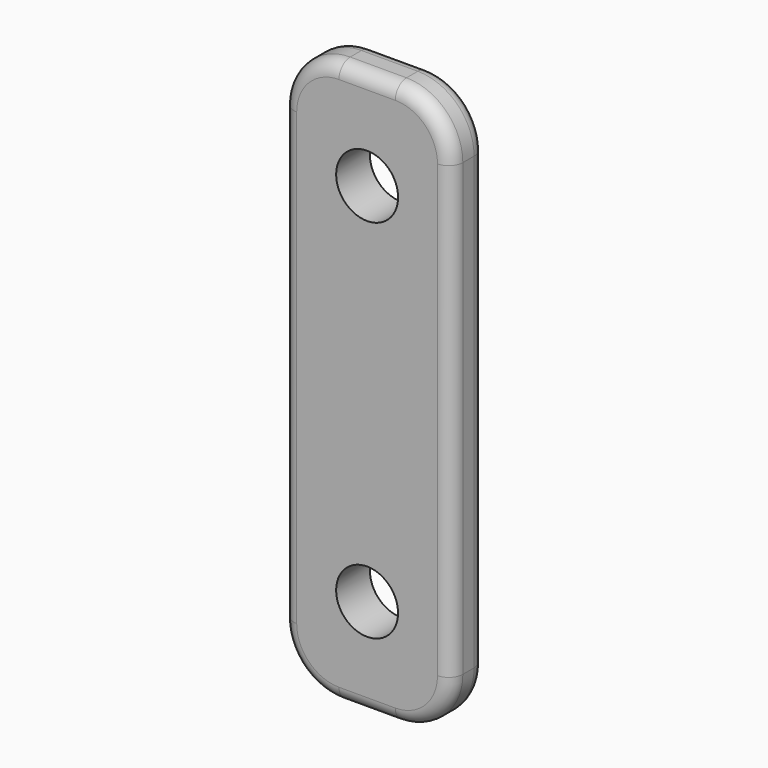
from build123d import *

# Parameters (mm, degrees)
F0_W           = 12
F0_H           = 40
F1_DEPTH       = 3
F2_R           = 4
F3_R           = 1
F5_D           = 4.4
F5_DEPTH       = 30
F5_CBORE_D     = 4.4
F5_CBORE_DEPTH = 4


with BuildPart() as f1:
    # F0 (on Front) → F1 (new body)
    with BuildSketch(Plane.XZ):
        Rectangle(F0_W, F0_H)
    extrude(amount=F1_DEPTH)

    # F2
    f2_edges = [f1.edges().sort_by_distance(p)[0] for p in [
        (6, -1.5, 20),
        (-6, -1.5, 20),
        (6, -1.5, -20),
        (-6, -1.5, -20),
    ]]
    fillet(f2_edges, radius=F2_R)

    # F3
    f3_edges = [f1.edges().sort_by_distance(p)[0] for p in [
        (6, -3, 0),
        (6, 0, 0),
        (-6, 0, 0),
        (-6, -3, 0),
    ]]
    fillet(f3_edges, radius=F3_R)

    # F5
    with Locations(Plane(origin=(0, 0, 0), x_dir=(1, 0, 0), z_dir=(0, 1, 0))):
        with Locations((0, 13), (0, -13)):
            CounterBoreHole(F5_D / 2, F5_CBORE_D / 2, F5_CBORE_DEPTH, depth=F5_DEPTH)


solid = f1.part
